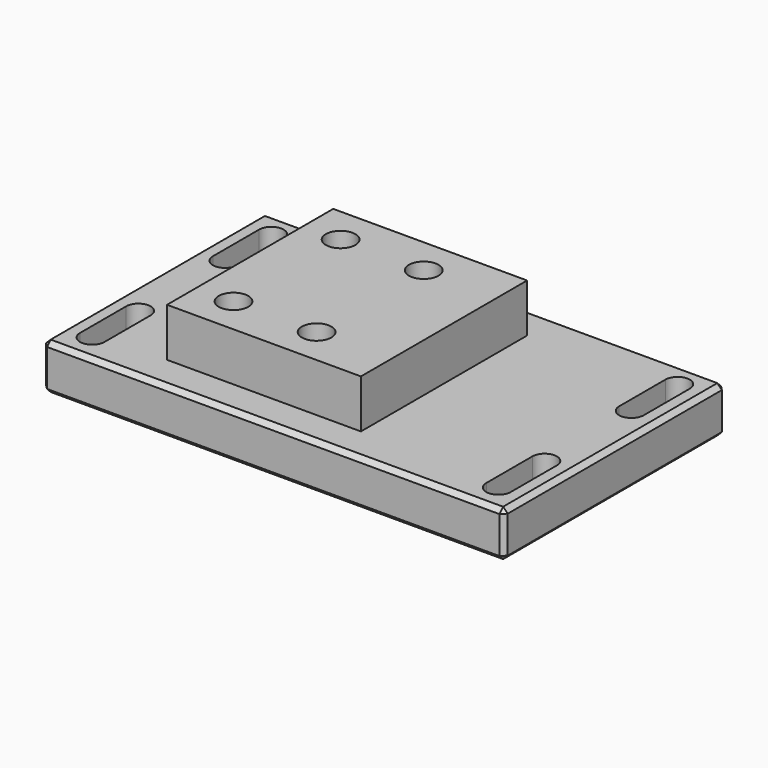
from build123d import *

# Parameters (mm, degrees)
SKETCH072_W     = 42
SKETCH072_H     = 45
PAD036_DEPTH    = 20.5
SKETCH073_W     = 100
SKETCH073_H     = 60
PAD037_DEPTH    = 10
POCKET024_DEPTH = 10
SKETCH074_R     = 3.2
HOLE007_DEPTH   = 25
CHAMFER019_SIZE = 1
CHAMFER020_SIZE = 1


with BuildPart() as part:
    # Sketch072 → Pad036 (new body)
    with BuildSketch(Plane.XY.offset(-24)):
        with Locations((72, 274.5)):
            Rectangle(SKETCH072_W, SKETCH072_H)
    extrude(amount=-PAD036_DEPTH)

    # Sketch073 → Pad037 (join)
    with BuildSketch(Plane.XY.offset(-44.5)):
        with Locations((80, 274.5)):
            Rectangle(SKETCH073_W, SKETCH073_H)
        with BuildLine():
            ThreePointArc((121.35, 286.5), (124, 283.85), (126.65, 286.5))
            Line((126.65, 286.5), (126.65, 299))
            ThreePointArc((126.65, 299), (124, 301.65), (121.35, 299))
            Line((121.35, 299), (121.35, 286.5))
        make_face(mode=Mode.SUBTRACT)
        with BuildLine():
            ThreePointArc((121.35, 250.5), (124, 247.85), (126.65, 250.5))
            Line((126.65, 250.5), (126.65, 263))
            ThreePointArc((126.65, 263), (124, 265.65), (121.35, 263))
            Line((121.35, 263), (121.35, 250.5))
        make_face(mode=Mode.SUBTRACT)
        with BuildLine():
            ThreePointArc((33.35, 250.5), (36, 247.85), (38.65, 250.5))
            Line((38.65, 250.5), (38.65, 263))
            ThreePointArc((38.65, 263), (36, 265.65), (33.35, 263))
            Line((33.35, 263), (33.35, 250.5))
        make_face(mode=Mode.SUBTRACT)
        with BuildLine():
            ThreePointArc((33.35, 286.5), (36, 283.85), (38.65, 286.5))
            Line((38.65, 286.5), (38.65, 299))
            ThreePointArc((38.65, 299), (36, 301.65), (33.35, 299))
            Line((33.35, 299), (33.35, 286.5))
        make_face(mode=Mode.SUBTRACT)
    extrude(amount=PAD037_DEPTH)

    # Sketch075 → Pocket024 (cut)
    with BuildSketch(Plane.XY.offset(-44.5)):
        Polygon((64.15, 257.026646), (64.15, 262.973354), (59, 265.946708), (53.85, 262.973354), (53.85, 257.026646), (59, 254.053292), align=None)
        Polygon((82.15, 257.026646), (82.15, 262.973354), (77, 265.946708), (71.85, 262.973354), (71.85, 257.026646), (77, 254.053292), align=None)
        Polygon((82.15, 286.026646), (82.15, 291.973354), (77, 294.946708), (71.85, 291.973354), (71.85, 286.026646), (77, 283.053292), align=None)
        Polygon((64.15, 286.026646), (64.15, 291.973354), (59, 294.946708), (53.85, 291.973354), (53.85, 286.026646), (59, 283.053292), align=None)
    extrude(amount=POCKET024_DEPTH, mode=Mode.SUBTRACT)

    # Sketch074 → Hole007 (cut)
    with BuildSketch(Plane.XY.offset(-44)):
        with Locations((59, 289)):
            Circle(SKETCH074_R)
        with Locations((77, 289)):
            Circle(SKETCH074_R)
        with Locations((77, 260)):
            Circle(SKETCH074_R)
        with Locations((59, 260)):
            Circle(SKETCH074_R)
    extrude(amount=HOLE007_DEPTH, mode=Mode.SUBTRACT)

    # Chamfer019
    chamfer019_edges = [part.edges().sort_by_distance(p)[0] for p in [
        (30, 304.5, -39.5),
        (130, 304.5, -39.5),
        (80, 304.5, -44.5),
        (80, 304.5, -34.5),
        (30, 244.5, -39.5),
        (30, 274.5, -44.5),
        (30, 274.5, -34.5),
        (130, 244.5, -39.5),
        (80, 244.5, -44.5),
        (80, 244.5, -34.5),
        (130, 274.5, -44.5),
        (130, 274.5, -34.5),
    ]]
    chamfer(chamfer019_edges, length=CHAMFER019_SIZE)

    # Chamfer020
    chamfer020_edges = [part.edges().sort_by_distance(p)[0] for p in [
        (38.65, 250.5, -39.5),
        (36, 247.85, -44.5),
        (33.35, 256.75, -44.5),
        (38.65, 256.75, -44.5),
    ]]
    chamfer(chamfer020_edges, length=CHAMFER020_SIZE)


with BuildPart() as part_1:
    # Body001009 placement: moved
    add(part.part.moved(Location((-4.75, 0.5, -6.5))))


solid = part_1.part
